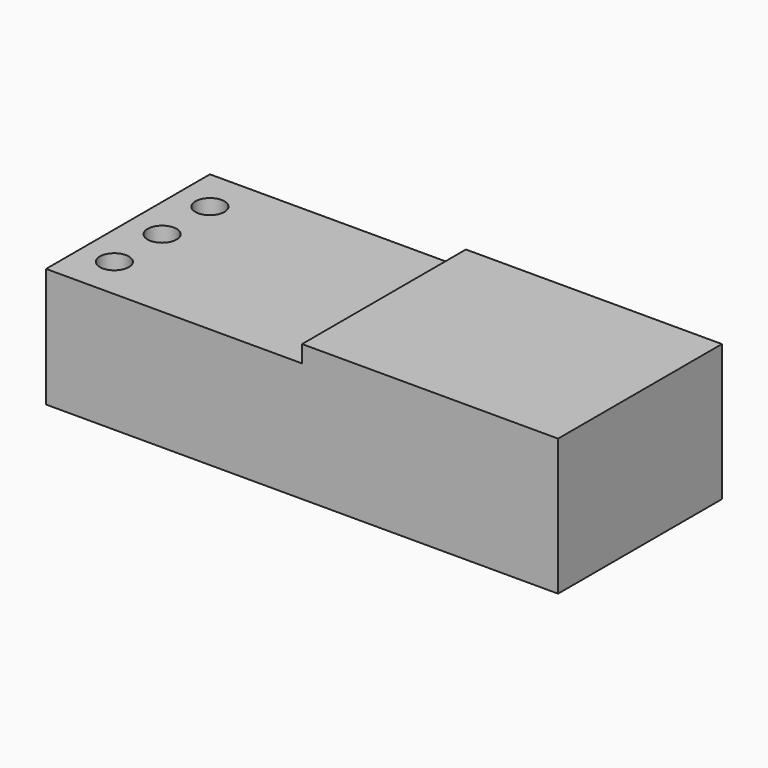
from build123d import *

# Parameters (mm, degrees)
F0_W     = 30
F0_H     = 12
F1_DEPTH = 4
F2_W     = 15
F2_H     = 1
F3_DEPTH = 25
F5_D     = 1.7


with BuildPart() as f1:
    # F0 (on Top) → F1 (new body, symmetric)
    with BuildSketch(Plane.XY):
        Rectangle(F0_W, F0_H)
    extrude(amount=F1_DEPTH, both=True)

    # F2 (on face) → F3 (cut)
    with BuildSketch(Plane(origin=(0, 6, 0), x_dir=(-1, 0, 0), z_dir=(0, 1, 0))):
        with Locations((7.5, 3.5)):
            Rectangle(F2_W, F2_H)
    extrude(amount=-F3_DEPTH, mode=Mode.SUBTRACT)

    # F5 (through all)
    with Locations(Plane(origin=(0, 0, -4), x_dir=(1, 0, 0), z_dir=(0, 0, -1))):
        with Locations((-13, -3.5), (-13, 0), (-13, 3.5)):
            Hole(F5_D / 2)


solid = f1.part
